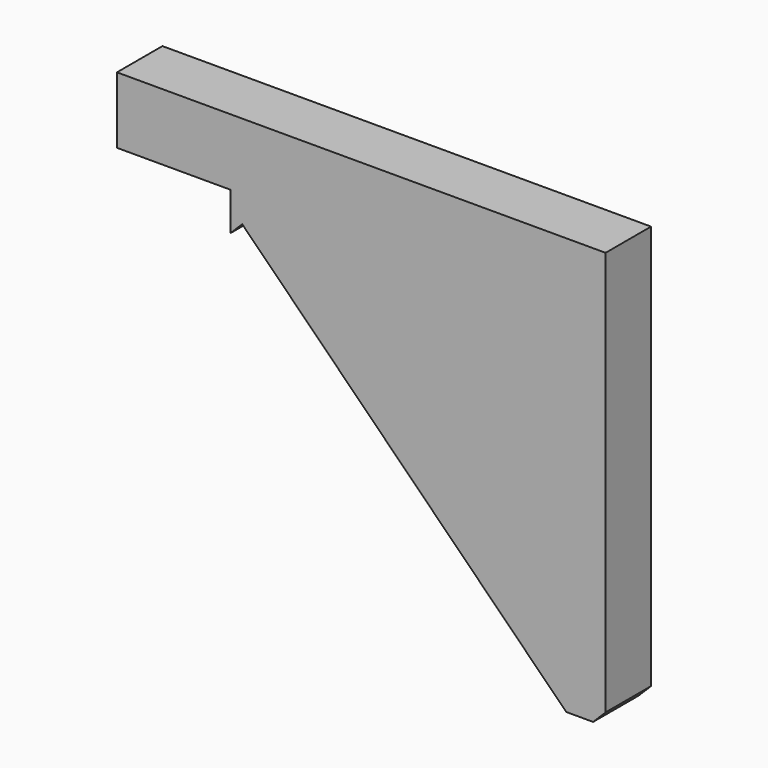
from build123d import *

# Parameters (mm, degrees)
BOX010_W               = 5
BOX010_H               = 85
BOX010_DEPTH           = 42
BOX010_PLACEMENT_ANGLE = 315
BOX007_W               = 7
BOX007_H               = 5
BOX007_DEPTH           = 36.85
BOX_W                  = 50
BOX_H                  = 5
BOX_DEPTH              = 5.85
BOX004_W               = 24
BOX004_H               = 85
BOX004_DEPTH           = 42
BOX004_PLACEMENT_ANGLE = 315
BOX002_W               = 40
BOX002_H               = 5
BOX002_DEPTH           = 30.85


with BuildPart() as cube010:
    # Box010 → Box010 (new body)
    with BuildSketch(Plane.XY):
        with Locations((2.5, 42.5)):
            Rectangle(BOX010_W, BOX010_H)
    extrude(amount=BOX010_DEPTH)


with BuildPart() as cube010_1:
    # Box010 placement: moved
    add(cube010.part.moved(Location((82.4, 5, -62))).rotate(Axis((82.4, 5, -62), (0, 1, 0)), BOX010_PLACEMENT_ANGLE))


with BuildPart() as cube007:
    # Box007 → Box007 (new body)
    with BuildSketch(Plane(origin=(55.25, 5, -31), x_dir=(1, 0, 0), z_dir=(0, 0, 1))):
        with Locations((3.5, 2.5)):
            Rectangle(BOX007_W, BOX007_H)
    extrude(amount=BOX007_DEPTH)


with BuildPart() as cube:
    # Box → Box (new body)
    with BuildSketch(Plane(origin=(12.25, 5, 0), x_dir=(1, 0, 0), z_dir=(0, 0, 1))):
        with Locations((25, 2.5)):
            Rectangle(BOX_W, BOX_H)
    extrude(amount=BOX_DEPTH)


with BuildPart() as cube004:
    # Box004 → Box004 (new body)
    with BuildSketch(Plane.XY):
        with Locations((12, 42.5)):
            Rectangle(BOX004_W, BOX004_H)
    extrude(amount=BOX004_DEPTH)


with BuildPart() as cube004_1:
    # Box004 placement: moved
    add(cube004.part.moved(Location((36, 5, -49))).rotate(Axis((36, 5, -49), (0, 1, 0)), BOX004_PLACEMENT_ANGLE))


with BuildPart() as cut005:
    # Box002 → Box002 (new body)
    with BuildSketch(Plane(origin=(22.25, 5, -30.85), x_dir=(1, 0, 0), z_dir=(0, 0, 1))):
        with Locations((20, 2.5)):
            Rectangle(BOX002_W, BOX002_H)
    extrude(amount=BOX002_DEPTH)

    # Cut: cut Cube004
    add(cube004_1.part, mode=Mode.SUBTRACT)

    # Fusion: union Cube
    add(cube.part)

    # Cut002: cut Cube007
    add(cube007.part, mode=Mode.SUBTRACT)

    # Cut005: cut Cube010
    add(cube010_1.part, mode=Mode.SUBTRACT)


solid = cut005.part
